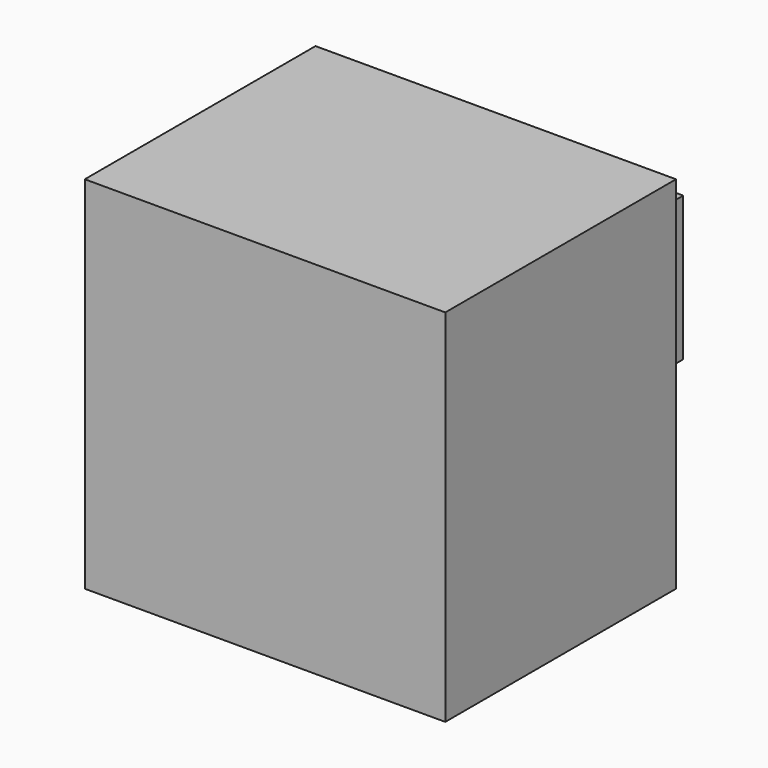
from build123d import *

# Parameters (mm, degrees)
F0_W     = 25
F0_H     = 20
F1_DEPTH = 25
F2_W     = 10
F2_H     = 10
F3_DEPTH = 10
F4_R     = 2.5
F5_DEPTH = 10


with BuildPart() as f1:
    # F0 (on Top) → F1 (new body)
    with BuildSketch(Plane.XY):
        Rectangle(F0_W, F0_H)
    extrude(amount=F1_DEPTH)

    # F2 (on face) → F3 (join)
    with BuildSketch(Plane(origin=(0, 10, 0), x_dir=(-1, 0, 0), z_dir=(0, 1, 0))):
        with Locations((0, 12.5)):
            Rectangle(F2_W, F2_H)
    extrude(amount=F3_DEPTH)

    # F4 (on face) → F5 (cut, through all)
    with BuildSketch(Plane(origin=(0, 20, 0), x_dir=(-1, 0, 0), z_dir=(0, 1, 0))):
        with Locations((0, 12.5)):
            Circle(F4_R)
    extrude(amount=-F5_DEPTH, mode=Mode.SUBTRACT)


solid = f1.part
